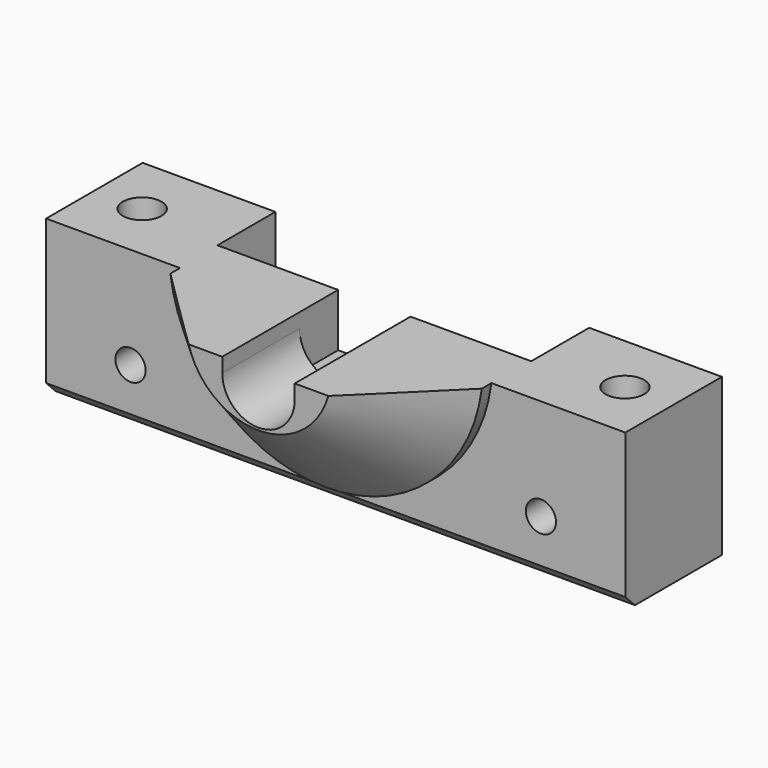
from build123d import *

# Parameters (mm, degrees)
PAD008_DEPTH    = 8
CHAMFER001_SIZE = 7
SKETCH026_R     = 1.6
PAD009_DEPTH    = 13
SKETCH030_W     = 6
SKETCH030_H     = 6
POCKET014_DEPTH = 10
SKETCH031_R     = 1.25
POCKET015_DEPTH = 10.001
CHAMFER003_SIZE = 2
CHAMFER004_SIZE = 1


with BuildPart() as part:
    # Sketch025 → Pad008 (new body)
    with BuildSketch(Plane.XZ):
        with BuildLine():
            ThreePointArc((-12.901163, -1.6), (0, -13), (12.901163, -1.6))
            Line((3, -1.6), (12.901163, -1.6))
            Line((3, -2.8), (3, -1.6))
            ThreePointArc((-3, -2.8), (0, -5.8), (3, -2.8))
            Line((-3, -1.6), (-3, -2.8))
            Line((-3, -1.6), (-12.901163, -1.6))
        make_face()
    extrude(amount=PAD008_DEPTH)

    # Chamfer001
    chamfer001_edges = [part.edges().sort_by_distance(p)[0] for p in [
        (0, -8, -13),
    ]]
    chamfer(chamfer001_edges, length=CHAMFER001_SIZE)

    # Sketch026 → Pad009 (join)
    with BuildSketch(Plane.XY.offset(-1.6)):
        Polygon((24, 0), (-24, 0), (-24, 8.5), (-24, 10), (-13, 10), (-13, 4), (13, 4), (13, 10), (24, 10), (24, 8.5), align=None)
        with Locations((-20, 4.953278)):
            Circle(SKETCH026_R, mode=Mode.SUBTRACT)
        with Locations((20, 4.953278)):
            Circle(SKETCH026_R, mode=Mode.SUBTRACT)
    extrude(amount=-PAD009_DEPTH)

    # Sketch030 → Pocket014 (cut)
    with BuildSketch(Plane.XZ):
        with Locations((0, -3)):
            Rectangle(SKETCH030_W, SKETCH030_H)
    extrude(amount=-POCKET014_DEPTH, mode=Mode.SUBTRACT)

    # Sketch031 → Pocket015 (cut, through all)
    with BuildSketch(Plane.XZ):
        with Locations((-17, -10)):
            Circle(SKETCH031_R)
        with Locations((17, -10)):
            Circle(SKETCH031_R)
    extrude(amount=-POCKET015_DEPTH, mode=Mode.SUBTRACT)

    # Chamfer003
    chamfer003_edges = [part.edges().sort_by_distance(p)[0] for p in [
        (18.4, 4.953278, -14.6),
        (-21.6, 4.953278, -14.6),
    ]]
    chamfer(chamfer003_edges, length=CHAMFER003_SIZE)

    # Chamfer004
    chamfer004_edges = [part.edges().sort_by_distance(p)[0] for p in [
        (0, 0, -14.6),
    ]]
    chamfer(chamfer004_edges, length=CHAMFER004_SIZE)


solid = part.part
